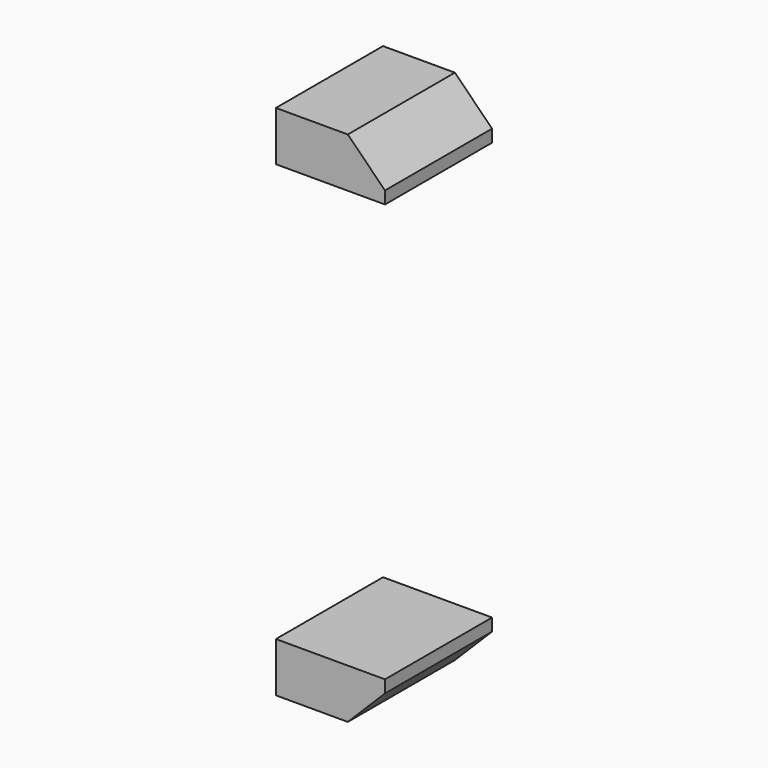
from build123d import *

# Parameters (mm, degrees)
BOX009_W        = 4.4
BOX009_H        = 5.4
BOX009_DEPTH    = 2
CHAMFER003_SIZE = 1.5
BOX008_W        = 4.4
BOX008_H        = 5.4
BOX008_DEPTH    = 2
CHAMFER002_SIZE = 1.5


with BuildPart() as chamfer003:
    # Box009 → Box009 (new body)
    with BuildSketch(Plane(origin=(41, -2.7, 17.63), x_dir=(1, 0, 0), z_dir=(0, 0, 1))):
        with Locations((2.2, 2.7)):
            Rectangle(BOX009_W, BOX009_H)
    extrude(amount=BOX009_DEPTH)

    # Chamfer003
    chamfer003_edges = [chamfer003.edges().sort_by_distance(p)[0] for p in [
        (45.4, 0, 19.63),
    ]]
    chamfer(chamfer003_edges, length=CHAMFER003_SIZE)


with BuildPart() as part_mirroring001:
    # Part__Mirroring001: instance of Chamfer003
    add(chamfer003.part.mirror(Plane(origin=(0, 0, 0), x_dir=(0, 1, 0), z_dir=(0, 0, 1))))


with BuildPart() as part_mirroring001_1:
    # Part__Mirroring001 placement: moved
    add(part_mirroring001.part.moved(Location((0, 0, 18.4))))


with BuildPart() as hook_bumps:
    # Box008 → Box008 (new body)
    with BuildSketch(Plane(origin=(41, -2.7, 17.63), x_dir=(1, 0, 0), z_dir=(0, 0, 1))):
        with Locations((2.2, 2.7)):
            Rectangle(BOX008_W, BOX008_H)
    extrude(amount=BOX008_DEPTH)

    # Chamfer002
    chamfer002_edges = [hook_bumps.edges().sort_by_distance(p)[0] for p in [
        (45.4, 0, 19.63),
    ]]
    chamfer(chamfer002_edges, length=CHAMFER002_SIZE)

    # Fusion005: union Part__Mirroring001
    add(part_mirroring001_1.part)


with BuildPart() as hook_bumps_1:
    # Fusion005 placement: moved
    add(hook_bumps.part.moved(Location((-10.6, 0, 3))))


solid = hook_bumps_1.part
